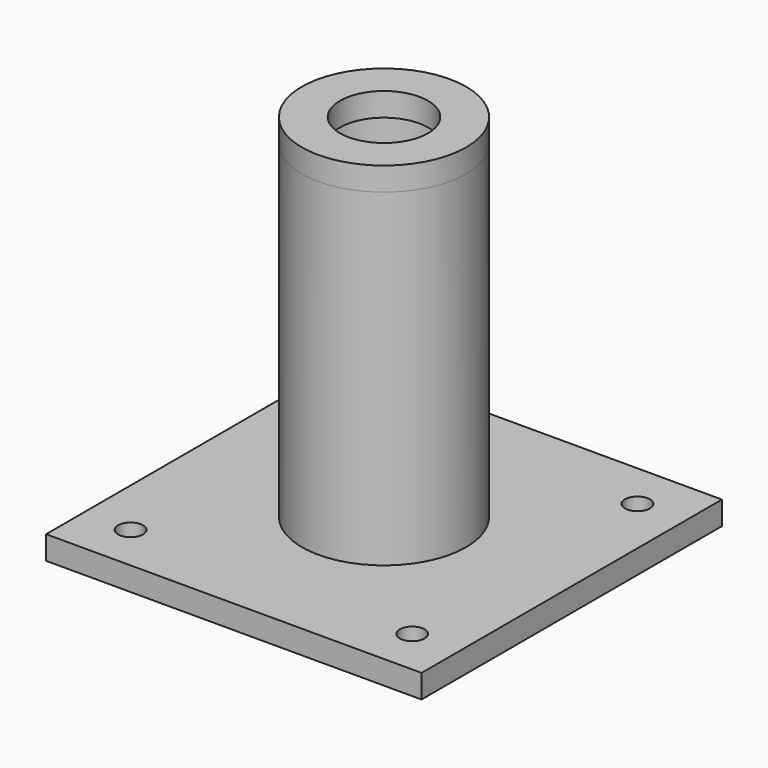
from build123d import *

# Parameters (mm, degrees)
F0_W     = 101.6
F0_H     = 101.6
F0_R     = 3.3655
F0_R_2   = 11.90625
F1_DEPTH = 6.35
F2_R     = 22.225
F2_R_2   = 15.875
F3_DEPTH = 88.9
F4_R     = 22.225
F4_R_2   = 11.90625
F5_DEPTH = 6.35


with BuildPart() as f1:
    # F0 (on Top) → F1 (new body)
    with BuildSketch(Plane.XY):
        with Locations((2.259261, 0.38768)):
            Rectangle(F0_W, F0_H)
        with Locations((-35.840739, -37.71232)):
            Circle(F0_R, mode=Mode.SUBTRACT)
        with Locations((40.359261, -37.71232)):
            Circle(F0_R, mode=Mode.SUBTRACT)
        with Locations((-35.840739, 38.48768)):
            Circle(F0_R, mode=Mode.SUBTRACT)
        with Locations((2.259261, 0.38768)):
            Circle(F0_R_2, mode=Mode.SUBTRACT)
        with Locations((40.359261, 38.48768)):
            Circle(F0_R, mode=Mode.SUBTRACT)
    extrude(amount=F1_DEPTH)


with BuildPart() as f3:
    # F2 (on face) → F3 (new body)
    with BuildSketch(Plane.XY.offset(6.35)):
        with Locations((2.259261, 0.38768)):
            Circle(F2_R)
        with Locations((2.259261, 0.38768)):
            Circle(F2_R_2, mode=Mode.SUBTRACT)
    extrude(amount=F3_DEPTH)


with BuildPart() as f5:
    # F4 (on face) → F5 (new body)
    with BuildSketch(Plane.XY.offset(95.25)):
        with Locations((2.259261, 0.38768)):
            Circle(F4_R)
        with Locations((2.259261, 0.38768)):
            Circle(F4_R_2, mode=Mode.SUBTRACT)
    extrude(amount=F5_DEPTH)


solid = Compound([f1.part, f3.part, f5.part])
